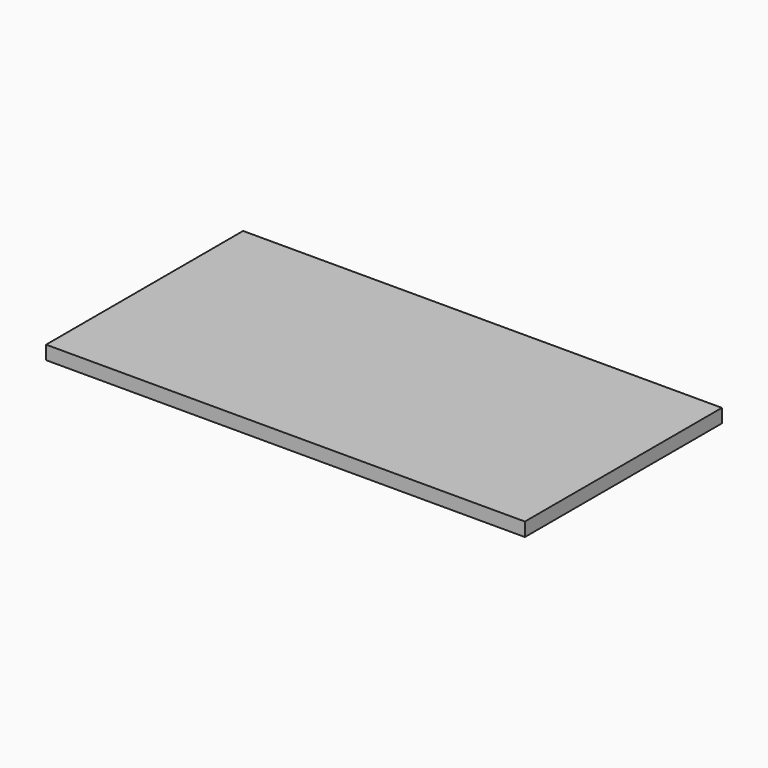
from build123d import *

# Parameters (mm, degrees)
SKETCH016_W     = 105
SKETCH016_H     = 54
PAD009_DEPTH    = 3
SKETCH028_R     = 3.25
POCKET011_DEPTH = 2
SKETCH029_R     = 3.25
POCKET012_DEPTH = 2
SKETCH030_R     = 3.25
POCKET013_DEPTH = 2


with BuildPart() as part:
    # Sketch016 → Pad009 (new body)
    with BuildSketch(Plane.XY):
        with Locations((0.5, 0)):
            Rectangle(SKETCH016_W, SKETCH016_H)
    extrude(amount=-PAD009_DEPTH)

    # Sketch028 (on Face6 of Pad009) → Pocket011 (cut)
    with BuildSketch(Plane(origin=(0, 0, -3), x_dir=(1, 0, 0), z_dir=(0, 0, -1))):
        with Locations((46.5, 17)):
            Circle(SKETCH028_R)
    extrude(amount=-POCKET011_DEPTH, mode=Mode.SUBTRACT)

    # Sketch029 (on Face5 of Pocket011) → Pocket012 (cut)
    with BuildSketch(Plane(origin=(0, 0, -3), x_dir=(1, 0, 0), z_dir=(0, 0, -1))):
        with Locations((46.5, -17)):
            Circle(SKETCH029_R)
    extrude(amount=-POCKET012_DEPTH, mode=Mode.SUBTRACT)

    # Sketch030 (on Face5 of Pocket012) → Pocket013 (cut)
    with BuildSketch(Plane(origin=(0, 0, -3), x_dir=(1, 0, 0), z_dir=(0, 0, -1))):
        with Locations((-30.2, -1.4)):
            Circle(SKETCH030_R)
    extrude(amount=-POCKET013_DEPTH, mode=Mode.SUBTRACT)


solid = part.part
